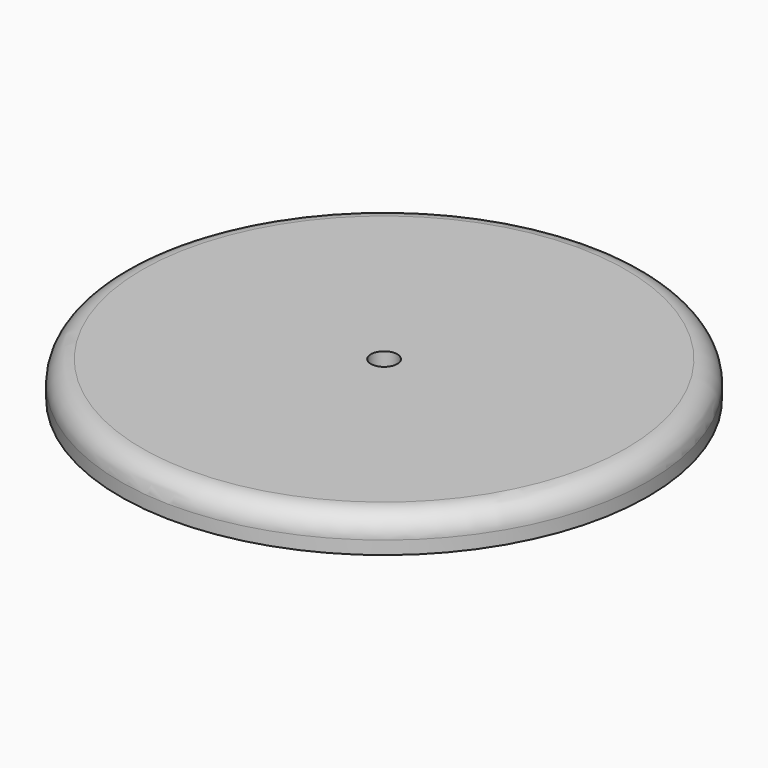
from build123d import *

# Parameters (mm, degrees)
F2_R     = 3
F3_DEPTH = 25


with BuildPart() as f1:
    # F0 (on Front) → F1 (revolve)
    with BuildSketch(Plane.XZ):
        with BuildLine():
            ThreePointArc((60, 3), (58.535534, 6.535534), (55, 8))
            Line((55, 8), (0, 8))
            Line((0, 8), (0, 0))
            Line((0, 0), (60, 0))
            Line((60, 0), (60, 3))
        make_face()
    revolve(axis=Axis((0, 0, 4), (0, 0, -1)))

    # F2 (on face) → F3 (cut)
    with BuildSketch(Plane.XY.offset(8)):
        Circle(F2_R)
    extrude(amount=-F3_DEPTH, mode=Mode.SUBTRACT)


solid = f1.part
